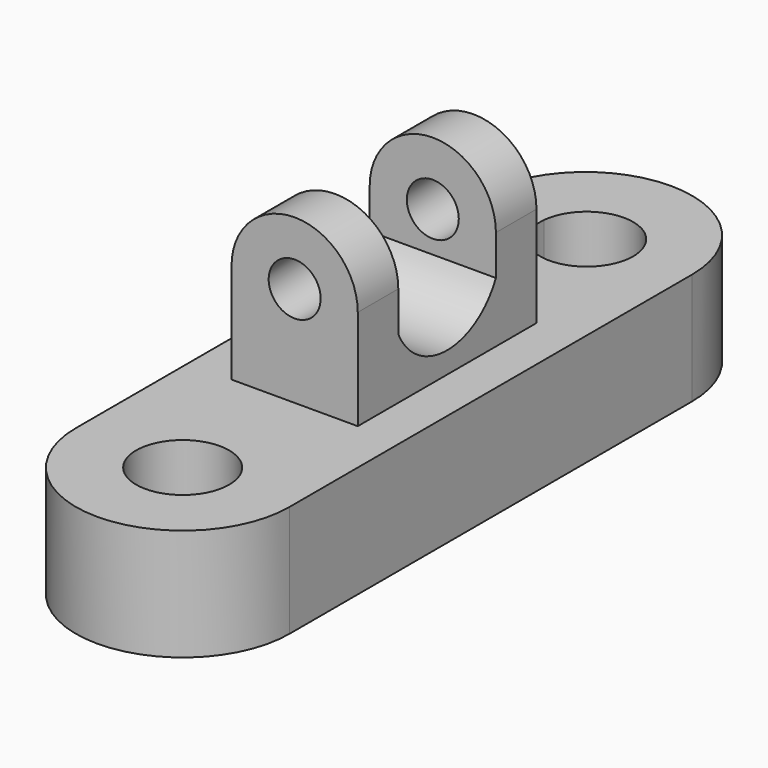
from build123d import *

# Parameters (mm, degrees)
F1_DEPTH = 25.4
F2_W     = 28.7031400949
F2_H     = 44.6516051888
F3_DEPTH = 25.4
F4_DEPTH = 25.4
F5_R     = 5.9098450102
F6_DEPTH = 106.9210470388
F7_W     = 27.7463691309
F7_H     = 9.0954080224
F7_H_2   = 14.3515700474
F8_DEPTH = 38.6391121352


with BuildPart() as f1:
    # F0 (on Top) → F1 (new body)
    with BuildSketch(Plane.XY):
        with BuildLine():
            Line((24.2865420878, -57.233504951), (24.2865420878, 57.233504951))
            Line((24.2865420878, 57.233504951), (11.6877524542, 57.233504951))
            ThreePointArc((11.6877524542, 57.233504951), (11.7283742061, 56.6995761613), (11.7419263642, 56.1642758548))
            ThreePointArc((11.7419263642, 56.1642758548), (0.6278652442, 45.5990671994), (-9.3614213529, 57.233504951))
            Line((-9.3614213529, 57.233504951), (-24.2865420878, 57.233504951))
            Line((-24.2865420878, 57.233504951), (-24.2865420878, -57.233504951))
            Line((-24.2865420878, -57.233504951), (-10.5787608136, -57.233504951))
            ThreePointArc((-10.5787608136, -57.233504951), (0, -46.6547441374), (10.5787608136, -57.233504951))
            Line((10.5787608136, -57.233504951), (24.2865420878, -57.233504951))
        make_face()
        with BuildLine():
            ThreePointArc((-24.2865420878, -57.233504951), (0, -81.5200470388), (24.2865420878, -57.233504951))
            Line((24.2865420878, -57.233504951), (10.5787608136, -57.233504951))
            ThreePointArc((10.5787608136, -57.233504951), (0, -67.8122657646), (-10.5787608136, -57.233504951))
            Line((-10.5787608136, -57.233504951), (-24.2865420878, -57.233504951))
        make_face()
        with BuildLine():
            Line((11.6877524542, 57.233504951), (24.2865420878, 57.233504951))
            ThreePointArc((24.2865420878, 57.233504951), (0, 81.5200470388), (-24.2865420878, 57.233504951))
            Line((-24.2865420878, 57.233504951), (-9.3614213529, 57.233504951))
            ThreePointArc((-9.3614213529, 57.233504951), (1.1631655507, 66.7430366684), (11.6877524542, 57.233504951))
        make_face()
    extrude(amount=F1_DEPTH)

    # F2 (on Front) → F3 (join)
    with BuildSketch(Plane.XZ):
        with Locations((0, 25.8776322007)):
            Rectangle(F2_W, F2_H)
        with BuildLine():
            Line((-14.3515700474, 48.2034347951), (14.3515700474, 48.2034347951))
            ThreePointArc((14.3515700474, 48.2034347951), (0, 62.5550048426), (-14.3515700474, 48.2034347951))
        make_face()
    extrude(amount=F3_DEPTH)

    # F4 (add): a face of the model
    f4_faces = [f1.faces().sort_by_distance(p)[0] for p in [
        (0, 0, 42.5881236801),
    ]]
    extrude(f4_faces, amount=F4_DEPTH)

    # F5 (on face) → F6 (cut, through all)
    with BuildSketch(Plane.XZ.offset(25.4)):
        with Locations((0, 48.2034347951)):
            Circle(F5_R)
    extrude(amount=-F6_DEPTH, mode=Mode.SUBTRACT)

    # F7 (on face) → F8 (cut, through all)
    with BuildSketch(Plane.YZ.offset(14.3515700474)):
        with BuildLine():
            Line((13.8731850311, 39.1080267727), (-13.8731840998, 39.1080267727))
            ThreePointArc((-13.8731840998, 39.1080267727), (4.657e-07, 30.2578937262), (13.8731850311, 39.1080267727))
        make_face()
        with Locations((4.657e-07, 43.6557307839)):
            Rectangle(F7_W, F7_H)
        with Locations((4.657e-07, 55.3792198189)):
            Rectangle(F7_W, F7_H_2)
    extrude(amount=-F8_DEPTH, mode=Mode.SUBTRACT)


solid = f1.part
